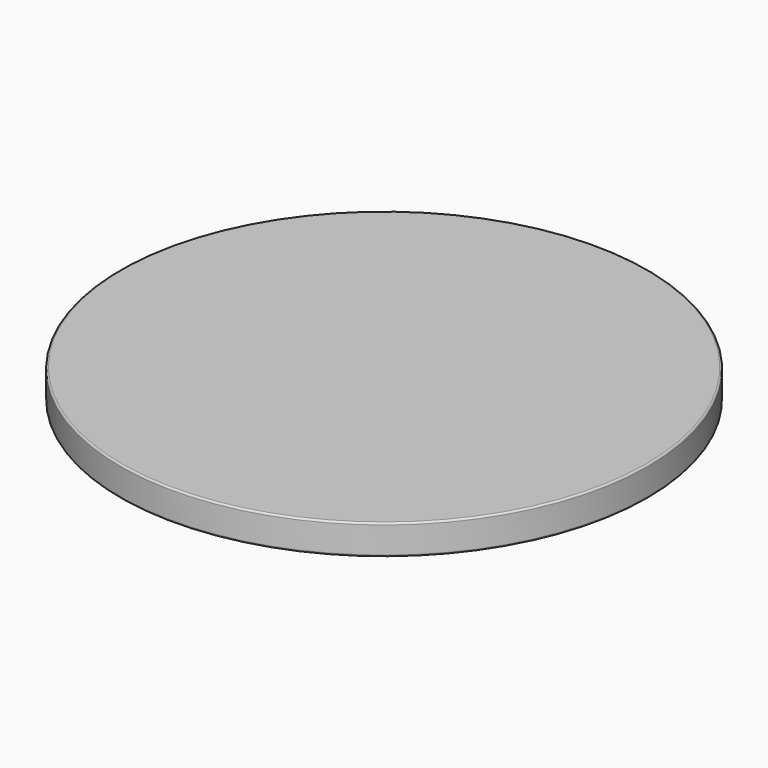
from build123d import *

# Parameters (mm, degrees)
F0_R     = 44
F0_R_2   = 42.9
F0_R_3   = 42.25
F1_DEPTH = 5
F2_R     = 42.9
F3_DEPTH = 3
F4_R     = 42.9
F4_R_2   = 42.15
F5_DEPTH = 0.3
F6_R     = 0.3
F7_R     = 0.1


with BuildPart() as f1:
    # F0 (on Top) → F1 (new body)
    with BuildSketch(Plane.XY):
        Circle(F0_R)
        Circle(F0_R_2, mode=Mode.SUBTRACT)
        Circle(F0_R_2)
        Circle(F0_R_3, mode=Mode.SUBTRACT)
        Circle(F0_R_3)
    extrude(amount=F1_DEPTH)

    # F2 (on face) → F3 (cut)
    with BuildSketch(Plane(origin=(0, 0, 0), x_dir=(1, 0, 0), z_dir=(0, 0, -1))):
        Circle(F2_R)
    extrude(amount=-F3_DEPTH, mode=Mode.SUBTRACT)

    # F4 (on face) → F5 (join)
    with BuildSketch(Plane(origin=(0, 0, 0), x_dir=(1, 0, 0), z_dir=(0, 0, -1))):
        Circle(F4_R)
        Circle(F4_R_2, mode=Mode.SUBTRACT)
    extrude(amount=-F5_DEPTH)

    # F6
    f6_edges = [f1.edges().sort_by_distance(p)[0] for p in [
        (-42.9, 0, 0.3),
        (42.9, 0, 1.65),
        (-42.9, 0, 3),
        (44, 0, 2.5),
        (-44, 0, 0),
        (-44, 0, 5),
    ]]
    fillet(f6_edges, radius=F6_R)

    # F7
    f7_edges = [f1.edges().sort_by_distance(p)[0] for p in [
        (42.15, 0, 0.15),
        (-42.15, 0, 0),
        (-42.15, 0, 0.3),
    ]]
    fillet(f7_edges, radius=F7_R)


solid = f1.part
